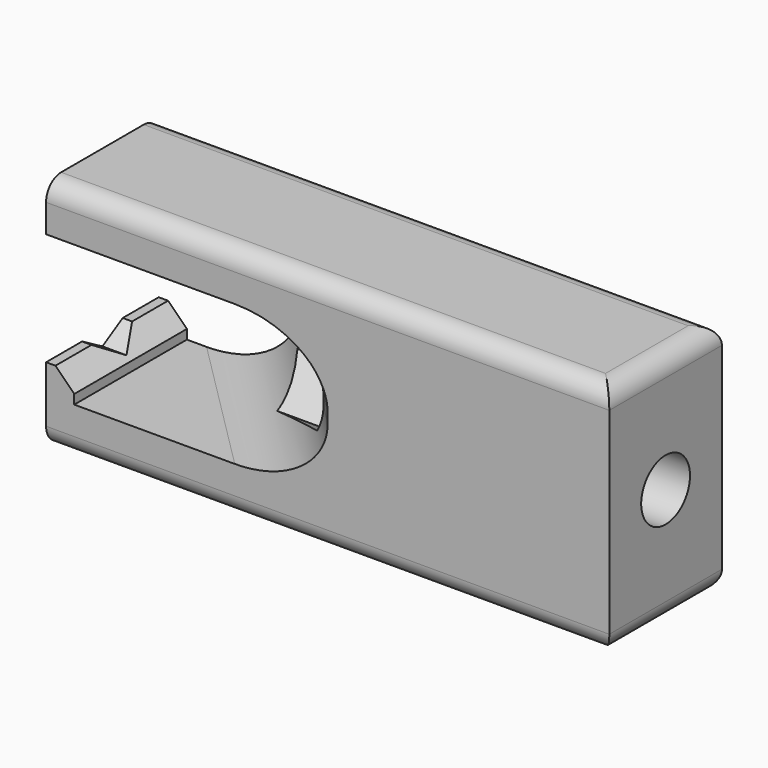
from build123d import *

# Parameters (mm, degrees)
PAD_DEPTH       = 15
SKETCH001_W     = 60
SKETCH001_H     = 15
PAD001_DEPTH    = 5
SKETCH002_W     = 60
SKETCH002_H     = 15
PAD002_DEPTH    = 5
FILLET_R        = 7
SKETCH003_W     = 3
SKETCH003_H     = 15
PAD003_DEPTH    = 3
CHAMFER_SIZE    = 2
SKETCH004_R     = 3.25
POCKET_DEPTH    = 60.001
POCKET001_DEPTH = 33
FILLET001_R     = 2


with BuildPart() as part:
    # Sketch → Pad (new body)
    with BuildSketch(Plane.XY):
        Polygon((0, 0), (30, 0), (30, 15), (-15, 15), align=None)
    extrude(amount=PAD_DEPTH)

    # Sketch001 (on Face6 of Pad) → Pad001 (join)
    with BuildSketch(Plane.XY.offset(15)):
        with Locations((0, 7.5)):
            Rectangle(SKETCH001_W, SKETCH001_H)
    extrude(amount=PAD001_DEPTH)

    # Sketch002 (on Face4 of Pad001) → Pad002 (join)
    with BuildSketch(Plane(origin=(0, 0, 0), x_dir=(1, 0, 0), z_dir=(0, 0, -1))):
        with Locations((0, -7.5)):
            Rectangle(SKETCH002_W, SKETCH002_H)
    extrude(amount=PAD002_DEPTH)

    # Fillet
    fillet_edges = [part.edges().sort_by_distance(p)[0] for p in [
        (-7.5, 7.5, 0),
        (-7.5, 7.5, 15),
    ]]
    fillet(fillet_edges, radius=FILLET_R)

    # Sketch003 (on Face9 of Fillet) → Pad003 (join)
    with BuildSketch(Plane.XY):
        with Locations((-28.5, 7.5)):
            Rectangle(SKETCH003_W, SKETCH003_H)
    extrude(amount=PAD003_DEPTH)

    # Chamfer
    chamfer_edges = [part.edges().sort_by_distance(p)[0] for p in [
        (-27, 7.5, 3),
    ]]
    chamfer(chamfer_edges, length=CHAMFER_SIZE)

    # Sketch004 (on Face18 of Chamfer) → Pocket (cut, through all)
    with BuildSketch(Plane.YZ.offset(30)):
        with Locations((7.5, 7.5)):
            Circle(SKETCH004_R)
    extrude(amount=-POCKET_DEPTH, mode=Mode.SUBTRACT)

    # Sketch005 (on Face23 of Pocket) → Pocket001 (cut)
    with BuildSketch(Plane(origin=(-30, 0, 0), x_dir=(0, -1, 0), z_dir=(-1, 0, 0))):
        Polygon((-7.5, 13.562178), (-12.75, 10.531089), (-12.75, 4.468911), (-7.5, 1.437822), (-2.25, 4.468911), (-2.25, 10.531089), align=None)
    extrude(amount=-POCKET001_DEPTH, mode=Mode.SUBTRACT)

    # Fillet001
    fillet001_edges = [part.edges().sort_by_distance(p)[0] for p in [
        (30, 7.5, 20),
        (30, 7.5, -5),
        (0, 0, 20),
        (0, 0, -5),
        (0, 15, 20),
        (0, 15, -5),
    ]]
    fillet(fillet001_edges, radius=FILLET001_R)


solid = part.part
